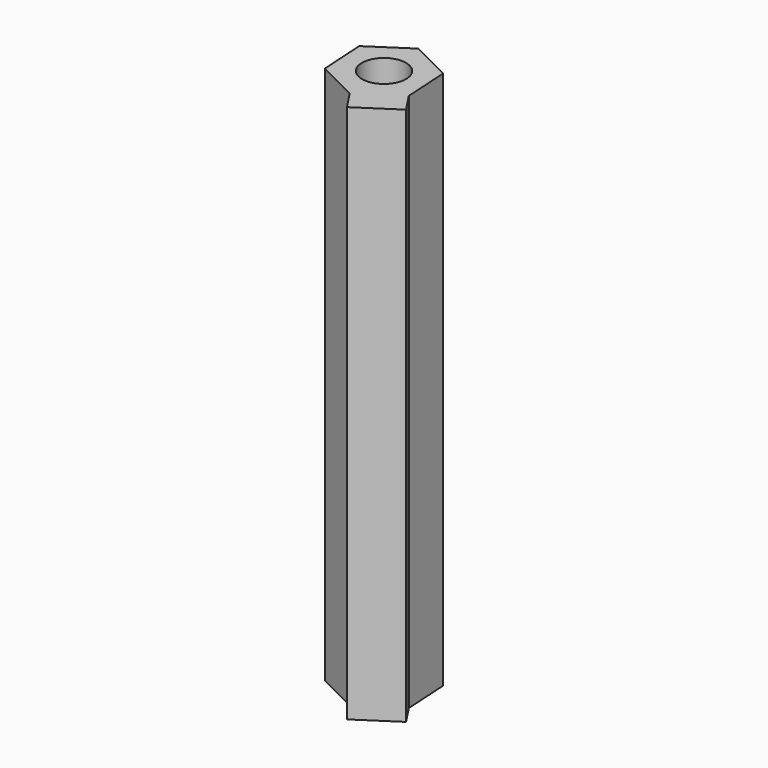
from build123d import *

# Parameters (mm, degrees)
F1_DEPTH = 583.438
F2_DEPTH = 25.4
F3_R     = 23.8346071904
F4_DEPTH = 899.16


with BuildPart() as f1:
    # F0 (on Top) → F1 (new body)
    with BuildSketch(Plane.XY):
        Polygon((2.9511202201, -50.0551973681), (44.8246326223, -22.4718536038), (41.8735124022, 27.5833437643), (-2.9511202201, 50.0551973681), (-44.8246326223, 22.4718536038), (-41.8735124022, -27.5833437643), align=None)
    extrude(amount=F1_DEPTH)

    # F2 (add): a face of the model
    f2_faces = [f1.faces().sort_by_distance(p)[0] for p in [
        (23.8878764212, -36.263525486, 291.719),
    ]]
    extrude(f2_faces, amount=F2_DEPTH)

    # F3 (on face) → F4 (cut)
    with BuildSketch(Plane.XY.offset(583.438)):
        Circle(F3_R)
    extrude(amount=-F4_DEPTH, mode=Mode.SUBTRACT)


solid = f1.part
